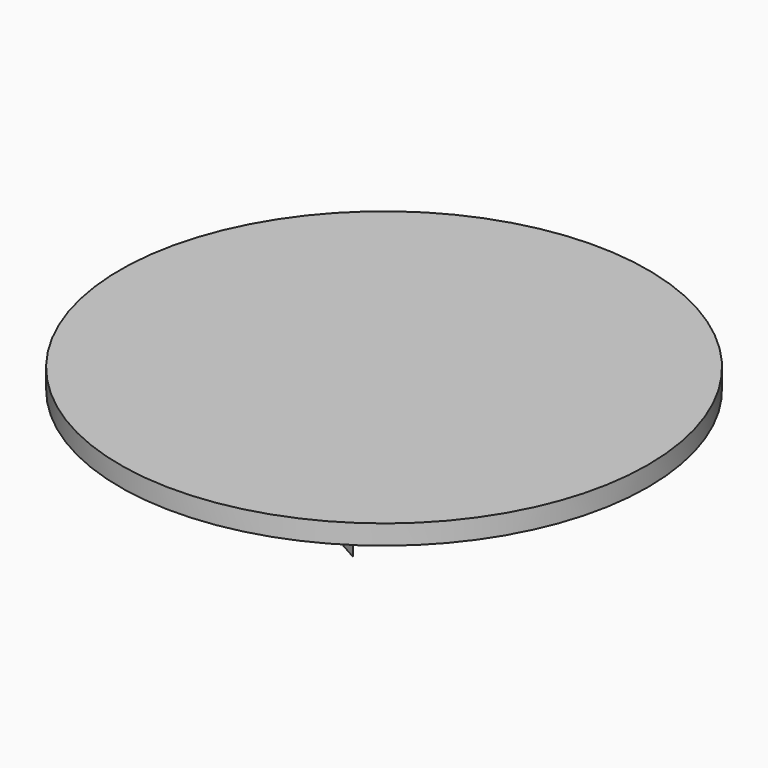
from build123d import *

# Parameters (mm, degrees)
F1_DEPTH = 3
F0_R     = 4.1883585847
F0_R_2   = 4.8531837551
F0_R_3   = 1.7874503883
F0_R_4   = 67.2315018971
F2_DEPTH = 5


with BuildPart() as f1:
    # F0 (on Top) → F1 (new body)
    with BuildSketch(Plane.XY):
        with BuildLine():
            Line((6.524791941, 11.1604705453), (18.5407903045, 35.0785702467))
            Line((18.5407903045, 35.0785702467), (6.8664811552, 25.5113355815))
            Line((6.8664811552, 25.5113355815), (9.9986130372, 25.5113355815))
            Line((9.9986130372, 25.5113355815), (4.0190881118, 16.3427311927))
            Line((4.0190881118, 16.3427311927), (1.8550701207, 14.748191461))
            Line((1.8550701207, 14.748191461), (0, 14.748191461))
            Line((0, 14.748191461), (-2.6880883992, 15.5013195603))
            Line((-2.6880883992, 15.5013195603), (-4.9156010843, 16.1254070699))
            Line((-4.9156010843, 16.1254070699), (-12.8565848023, 16.1254070699))
            ThreePointArc((-12.8565848023, 16.1254070699), (-13.8442379694, 16.0435606013), (-14.8049458285, 15.8002541438))
            Line((-14.8049458285, 15.8002541438), (-19.5052184044, 14.18649649))
            Line((-19.5052184044, 14.18649649), (-23.8284152001, 11.7299547419))
            Line((-23.8284152001, 11.7299547419), (-25.479901582, 10.5909984559))
            Line((-25.479901582, 10.5909984559), (-27.2452868521, 10.5909984559))
            Line((-27.2452868521, 10.5909984559), (-38.6348553002, 22.436151281))
            Line((-38.6348553002, 22.436151281), (-54.4432774186, 34.1674089432))
            Line((-54.4432774186, 34.1674089432), (-44.6143820882, 20.6707678735))
            Line((-44.6143820882, 20.6707678735), (-26.334118098, 3.1308280304))
            Line((-26.334118098, 3.1308280304), (-22.0568471308, 1.9324548836))
            Line((-22.0568471308, 1.9324548836), (-24.0562036633, 4.3836818077))
            Line((-24.0562036633, 4.3836818077), (-24.0562036633, 5.6934817694))
            Line((-24.0562036633, 5.6934817694), (-23.0311434716, 6.8893865682))
            Line((-23.0311434716, 6.8893865682), (-20.4684883356, 8.6547704414))
            Line((-20.4684883356, 8.6547704414), (-16.9946700335, 10.4771014303))
            Line((-16.9946700335, 10.4771014303), (-14.09033034, 11.5807517488))
            Line((-14.09033034, 11.5807517488), (-9.1928122565, 12.1285896748))
            Line((-9.1928122565, 12.1285896748), (-4.6369838528, 11.4452149719))
            Line((-4.6369838528, 11.4452149719), (-1.7052790924, 10.6238322991))
            Line((-1.7052790924, 10.6238322991), (1.1533434658, 9.1877146974))
            Line((1.1533434658, 9.1877146974), (1.9689633045, 8.5978163406))
            Line((1.9689633045, 8.5978163406), (1.9689633045, 6.4337980002))
            Line((1.9689633045, 6.4337980002), (6.524791941, 11.1604705453))
        make_face()
    extrude(amount=-F1_DEPTH)


with BuildPart() as f1b:
    # F0 (on Top) → F1, piece 2 (new body)
    with BuildSketch(Plane.XY):
        Polygon((-26.9036013633, 15.8871430904), (-23.4297811985, 14.0648102388), (-24.5117917657, 16.9122032821), (-24.5117917657, 18.7345407903), (-23.6006230116, 20.0443416834), (-20.0129076838, 21.5249862522), (-16.0265564919, 22.6069949567), (-11.2998858094, 23.2903696597), (-5.6620473042, 23.2903696597), (-2.8716025408, 22.4930997938), (-1.8465407193, 21.5249862522), (-1.390957972, 20.5568727106), (-1.390957972, 17.48168841), (1.2855911627, 20.2721264213), (4.9872016534, 33.484030515), (-2.1312802564, 27.2197667509), (-4.580038134, 27.6753548533), (-7.5982743874, 27.6753548533), (-11.2998858094, 27.6753548533), (-14.09033034, 27.1628238261), (-17.5641495734, 26.4794509858), (-20.8671260625, 25.5113355815), (-23.0311434716, 24.4293212891), (-23.4297811985, 24.4293212891), (-26.7327539623, 24.4293212891), (-38.2902911921, 40.1423304444), (-32.4275419116, 24.7140601277), align=None)
    extrude(amount=-F1_DEPTH)


with BuildPart() as f1c:
    # F0 (on Top) → F1, piece 3 (new body)
    with BuildSketch(Plane.XY):
        Polygon((-30.920324406, -0.6410955102), (-25.0839442015, -1.5165531076), (-39.2646156251, 8.5978163406), (-54.4432774186, 13.9403799549), align=None)
    extrude(amount=-F1_DEPTH)


with BuildPart() as f1d:
    # F0 (on Top) → F1, piece 4 (new body)
    with BuildSketch(Plane.XY):
        Polygon((-36.9173251092, -23.5243160278), (-40.6554341316, -34.4649702311), (-30.8183096349, -19.2739889026), (-35.5839021504, -20.8293963224), (-39.081171155, -22.8726491332), (-43.0163405836, -25.649478659), align=None)
    extrude(amount=-F1_DEPTH)


with BuildPart() as f1e:
    # F0 (on Top) → F1, piece 5 (new body)
    with BuildSketch(Plane.XY):
        Polygon((-34.4383716583, -29.4275470078), (-30.8183096349, -24.2327023298), (-35.8010726204, -28.561739251), (-37.1927656233, -31.0804508626), align=None)
    extrude(amount=-F1_DEPTH)


with BuildPart() as f1f:
    # F0 (on Top) → F1, piece 6 (new body)
    with BuildSketch(Plane.XY):
        Polygon((-29.165674001, -22.5797984749), (-32.4709452689, -28.561739251), (-29.3230675161, -26.4365747571), (-24.994732812, -20.1397966594), align=None)
    extrude(amount=-F1_DEPTH)


with BuildPart() as f1g:
    # F0 (on Top) → F1, piece 7 (new body)
    with BuildSketch(Plane.XY):
        with BuildLine():
            Line((-28.8508869708, -28.874181211), (-35.9521023929, -42.3855111003))
            Line((-35.9521023929, -42.3855111003), (-16.6643485427, -24.3179053068))
            Line((-16.6643485427, -24.3179053068), (-16.0232782364, -24.3884529918))
            ThreePointArc((-16.0232782364, -24.3884529918), (1.0549083614, -22.4439980096), (3.9627072361, -5.5032167894))
            Line((3.9627072361, -5.5032167894), (40.6385473907, 33.2254134119))
            Line((40.6385473907, 33.2254134119), (48.0357185006, 45.5672293901))
            Line((48.0357185006, 45.5672293901), (-1.5388774003, 0.3179199721))
            ThreePointArc((-1.5388774003, 0.3179199721), (-11.897114444, 1.940222604), (-20.5842528774, -3.9299193296))
            Line((-20.5842528774, -3.9299193296), (-24.1336280736, -3.9299193296))
            Line((-24.1336280736, -3.9299193296), (-22.240338847, -7.150552102))
            Line((-22.240338847, -7.150552102), (-22.240338847, -11.0886627808))
            Line((-22.240338847, -11.0886627808), (-18.3054897934, -9.7508141771))
            Line((-18.3054897934, -9.7508141771), (-14.2919449136, -9.7508141771))
            Line((-14.2919449136, -9.7508141771), (-16.1061811793, -6.5578027082))
            ThreePointArc((-16.1061811793, -6.5578027082), (0.8755312536, -12.9223696784), (-17.0014028047, -15.9722055013))
            Line((-17.0014028047, -15.9722055013), (-28.8508869708, -28.874181211))
        make_face()
    extrude(amount=-F1_DEPTH)


with BuildPart() as f1h:
    # F0 (on Top) → F1, piece 8 (new body)
    with BuildSketch(Plane.XY):
        with Locations((-8.6963499838, -11.8858055258)):
            Circle(F0_R)
    extrude(amount=-F1_DEPTH)


with BuildPart() as f1i:
    # F0 (on Top) → F1, piece 9 (new body)
    with BuildSketch(Plane.XY):
        with Locations((14.2299542493, -12.1699558468)):
            Circle(F0_R_2)
        with Locations((14.4696965303, -11.94712984)):
            Circle(F0_R_3, mode=Mode.SUBTRACT)
    extrude(amount=-F1_DEPTH)


with BuildPart() as f1j:
    # F0 (on Top) → F1, piece 10 (new body)
    with BuildSketch(Plane.XY):
        with BuildLine():
            Line((19.5455458015, 2.9109590687), (21.5109754354, 2.9109590687))
            Line((21.5109754354, 2.9109590687), (22.6636195944, 2.5548051165))
            ThreePointArc((22.6636195944, 2.5548051165), (26.3133055863, -15.6659247159), (19.4490682334, -32.9343192279))
            Line((19.4490682334, -32.9343192279), (15.6118310988, -33.1215001643))
            Line((15.6118310988, -33.1215001643), (8.3121499047, -28.1611848623))
            Line((8.3121499047, -28.1611848623), (10.6514208019, -34.3381799757))
            Line((10.6514208019, -34.3381799757), (27.8708003461, -50.7165715098))
            Line((27.8708003461, -50.7165715098), (36.4808142185, -55.5514258753))
            Line((36.4808142185, -55.5514258753), (22.4710945349, -38.9282732765))
            Line((22.4710945349, -38.9282732765), (23.0053216219, -35.3676788509))
            ThreePointArc((23.0053216219, -35.3676788509), (30.6912772846, -16.542626229), (27.3291476131, 3.5111166819))
            Line((27.3291476131, 3.5111166819), (26.9393716007, 4.5020021498))
            Line((26.9393716007, 4.5020021498), (27.9690362513, 6.5609994344))
            Line((27.9690362513, 6.5609994344), (34.707993269, 11.7084933445))
            Line((34.707993269, 11.7084933445), (38.2649675012, 18.1662589312))
            Line((38.2649675012, 18.1662589312), (15.3340501711, 3.7532753777))
            Line((15.3340501711, 3.7532753777), (11.7771970108, -1.2070364319))
            Line((11.7771970108, -1.2070364319), (19.5455458015, 2.9109590687))
        make_face()
    extrude(amount=-F1_DEPTH)


with BuildPart() as f2:
    # F0 (on Top) → F2 (new body)
    with BuildSketch(Plane.XY):
        Circle(F0_R_4)
        Polygon((-35.8010726204, -28.561739251), (-30.8183096349, -24.2327023298), (-34.4383716583, -29.4275470078), (-37.1927656233, -31.0804508626), align=None, mode=Mode.SUBTRACT)
        Polygon((-30.8183096349, -19.2739889026), (-40.6554341316, -34.4649702311), (-36.9173251092, -23.5243160278), (-43.0163405836, -25.649478659), (-39.081171155, -22.8726491332), (-35.5839021504, -20.8293963224), align=None, mode=Mode.SUBTRACT)
        Polygon((-29.3230675161, -26.4365747571), (-32.4709452689, -28.561739251), (-29.165674001, -22.5797984749), (-24.994732812, -20.1397966594), align=None, mode=Mode.SUBTRACT)
        with Locations((-8.6963499838, -11.8858055258)):
            Circle(F0_R, mode=Mode.SUBTRACT)
        with BuildLine():
            Line((22.6636195944, 2.5548051165), (21.5109754354, 2.9109590687))
            Line((21.5109754354, 2.9109590687), (19.5455458015, 2.9109590687))
            Line((19.5455458015, 2.9109590687), (11.7771970108, -1.2070364319))
            Line((11.7771970108, -1.2070364319), (15.3340501711, 3.7532753777))
            Line((15.3340501711, 3.7532753777), (38.2649675012, 18.1662589312))
            Line((38.2649675012, 18.1662589312), (34.707993269, 11.7084933445))
            Line((34.707993269, 11.7084933445), (27.9690362513, 6.5609994344))
            Line((27.9690362513, 6.5609994344), (26.9393716007, 4.5020021498))
            Line((26.9393716007, 4.5020021498), (27.3291476131, 3.5111166819))
            ThreePointArc((27.3291476131, 3.5111166819), (30.6912772846, -16.542626229), (23.0053216219, -35.3676788509))
            Line((23.0053216219, -35.3676788509), (22.4710945349, -38.9282732765))
            Line((22.4710945349, -38.9282732765), (36.4808142185, -55.5514258753))
            Line((36.4808142185, -55.5514258753), (27.8708003461, -50.7165715098))
            Line((27.8708003461, -50.7165715098), (10.6514208019, -34.3381799757))
            Line((10.6514208019, -34.3381799757), (8.3121499047, -28.1611848623))
            Line((8.3121499047, -28.1611848623), (15.6118310988, -33.1215001643))
            Line((15.6118310988, -33.1215001643), (19.4490682334, -32.9343192279))
            ThreePointArc((19.4490682334, -32.9343192279), (26.3133055863, -15.6659247159), (22.6636195944, 2.5548051165))
        make_face(mode=Mode.SUBTRACT)
        with Locations((14.2299542493, -12.1699558468)):
            Circle(F0_R_2, mode=Mode.SUBTRACT)
        Polygon((-39.2646156251, 8.5978163406), (-25.0839442015, -1.5165531076), (-30.920324406, -0.6410955102), (-54.4432774186, 13.9403799549), align=None, mode=Mode.SUBTRACT)
        with BuildLine():
            Line((6.8664811552, 25.5113355815), (18.5407903045, 35.0785702467))
            Line((18.5407903045, 35.0785702467), (6.524791941, 11.1604705453))
            Line((6.524791941, 11.1604705453), (1.9689633045, 6.4337980002))
            Line((1.9689633045, 6.4337980002), (1.9689633045, 8.5978163406))
            Line((1.9689633045, 8.5978163406), (1.1533434658, 9.1877146974))
            Line((1.1533434658, 9.1877146974), (-1.7052790924, 10.6238322991))
            Line((-1.7052790924, 10.6238322991), (-4.6369838528, 11.4452149719))
            Line((-4.6369838528, 11.4452149719), (-9.1928122565, 12.1285896748))
            Line((-9.1928122565, 12.1285896748), (-14.09033034, 11.5807517488))
            Line((-14.09033034, 11.5807517488), (-16.9946700335, 10.4771014303))
            Line((-16.9946700335, 10.4771014303), (-20.4684883356, 8.6547704414))
            Line((-20.4684883356, 8.6547704414), (-23.0311434716, 6.8893865682))
            Line((-23.0311434716, 6.8893865682), (-24.0562036633, 5.6934817694))
            Line((-24.0562036633, 5.6934817694), (-24.0562036633, 4.3836818077))
            Line((-24.0562036633, 4.3836818077), (-22.0568471308, 1.9324548836))
            Line((-22.0568471308, 1.9324548836), (-26.334118098, 3.1308280304))
            Line((-26.334118098, 3.1308280304), (-44.6143820882, 20.6707678735))
            Line((-44.6143820882, 20.6707678735), (-54.4432774186, 34.1674089432))
            Line((-54.4432774186, 34.1674089432), (-38.6348553002, 22.436151281))
            Line((-38.6348553002, 22.436151281), (-27.2452868521, 10.5909984559))
            Line((-27.2452868521, 10.5909984559), (-25.479901582, 10.5909984559))
            Line((-25.479901582, 10.5909984559), (-23.8284152001, 11.7299547419))
            Line((-23.8284152001, 11.7299547419), (-19.5052184044, 14.18649649))
            Line((-19.5052184044, 14.18649649), (-14.8049458285, 15.8002541438))
            ThreePointArc((-14.8049458285, 15.8002541438), (-13.8442379694, 16.0435606013), (-12.8565848023, 16.1254070699))
            Line((-12.8565848023, 16.1254070699), (-4.9156010843, 16.1254070699))
            Line((-4.9156010843, 16.1254070699), (-2.6880883992, 15.5013195603))
            Line((-2.6880883992, 15.5013195603), (0, 14.748191461))
            Line((0, 14.748191461), (1.8550701207, 14.748191461))
            Line((1.8550701207, 14.748191461), (4.0190881118, 16.3427311927))
            Line((4.0190881118, 16.3427311927), (9.9986130372, 25.5113355815))
            Line((9.9986130372, 25.5113355815), (6.8664811552, 25.5113355815))
        make_face(mode=Mode.SUBTRACT)
        Polygon((-24.5117917657, 16.9122032821), (-23.4297811985, 14.0648102388), (-26.9036013633, 15.8871430904), (-32.4275419116, 24.7140601277), (-38.2902911921, 40.1423304444), (-26.7327539623, 24.4293212891), (-23.4297811985, 24.4293212891), (-23.0311434716, 24.4293212891), (-20.8671260625, 25.5113355815), (-17.5641495734, 26.4794509858), (-14.09033034, 27.1628238261), (-11.2998858094, 27.6753548533), (-7.5982743874, 27.6753548533), (-4.580038134, 27.6753548533), (-2.1312802564, 27.2197667509), (4.9872016534, 33.484030515), (1.2855911627, 20.2721264213), (-1.390957972, 17.48168841), (-1.390957972, 20.5568727106), (-1.8465407193, 21.5249862522), (-2.8716025408, 22.4930997938), (-5.6620473042, 23.2903696597), (-11.2998858094, 23.2903696597), (-16.0265564919, 22.6069949567), (-20.0129076838, 21.5249862522), (-23.6006230116, 20.0443416834), (-24.5117917657, 18.7345407903), align=None, mode=Mode.SUBTRACT)
        with BuildLine():
            Line((-16.6643485427, -24.3179053068), (-35.9521023929, -42.3855111003))
            Line((-35.9521023929, -42.3855111003), (-28.8508869708, -28.874181211))
            Line((-28.8508869708, -28.874181211), (-17.0014028047, -15.9722055013))
            ThreePointArc((-17.0014028047, -15.9722055013), (0.8755312536, -12.9223696784), (-16.1061811793, -6.5578027082))
            Line((-16.1061811793, -6.5578027082), (-14.2919449136, -9.7508141771))
            Line((-14.2919449136, -9.7508141771), (-18.3054897934, -9.7508141771))
            Line((-18.3054897934, -9.7508141771), (-22.240338847, -11.0886627808))
            Line((-22.240338847, -11.0886627808), (-22.240338847, -7.150552102))
            Line((-22.240338847, -7.150552102), (-24.1336280736, -3.9299193296))
            Line((-24.1336280736, -3.9299193296), (-20.5842528774, -3.9299193296))
            ThreePointArc((-20.5842528774, -3.9299193296), (-11.897114444, 1.940222604), (-1.5388774003, 0.3179199721))
            Line((-1.5388774003, 0.3179199721), (48.0357185006, 45.5672293901))
            Line((48.0357185006, 45.5672293901), (40.6385473907, 33.2254134119))
            Line((40.6385473907, 33.2254134119), (3.9627072361, -5.5032167894))
            ThreePointArc((3.9627072361, -5.5032167894), (1.0549083614, -22.4439980096), (-16.0232782364, -24.3884529918))
            Line((-16.0232782364, -24.3884529918), (-16.6643485427, -24.3179053068))
        make_face(mode=Mode.SUBTRACT)
        with BuildLine():
            Line((-28.8508869708, -28.874181211), (-35.9521023929, -42.3855111003))
            Line((-35.9521023929, -42.3855111003), (-16.6643485427, -24.3179053068))
            Line((-16.6643485427, -24.3179053068), (-16.0232782364, -24.3884529918))
            ThreePointArc((-16.0232782364, -24.3884529918), (1.0549083614, -22.4439980096), (3.9627072361, -5.5032167894))
            Line((3.9627072361, -5.5032167894), (40.6385473907, 33.2254134119))
            Line((40.6385473907, 33.2254134119), (48.0357185006, 45.5672293901))
            Line((48.0357185006, 45.5672293901), (-1.5388774003, 0.3179199721))
            ThreePointArc((-1.5388774003, 0.3179199721), (-11.897114444, 1.940222604), (-20.5842528774, -3.9299193296))
            Line((-20.5842528774, -3.9299193296), (-24.1336280736, -3.9299193296))
            Line((-24.1336280736, -3.9299193296), (-22.240338847, -7.150552102))
            Line((-22.240338847, -7.150552102), (-22.240338847, -11.0886627808))
            Line((-22.240338847, -11.0886627808), (-18.3054897934, -9.7508141771))
            Line((-18.3054897934, -9.7508141771), (-14.2919449136, -9.7508141771))
            Line((-14.2919449136, -9.7508141771), (-16.1061811793, -6.5578027082))
            ThreePointArc((-16.1061811793, -6.5578027082), (0.8755312536, -12.9223696784), (-17.0014028047, -15.9722055013))
            Line((-17.0014028047, -15.9722055013), (-28.8508869708, -28.874181211))
        make_face()
        with BuildLine():
            Line((19.5455458015, 2.9109590687), (21.5109754354, 2.9109590687))
            Line((21.5109754354, 2.9109590687), (22.6636195944, 2.5548051165))
            ThreePointArc((22.6636195944, 2.5548051165), (26.3133055863, -15.6659247159), (19.4490682334, -32.9343192279))
            Line((19.4490682334, -32.9343192279), (15.6118310988, -33.1215001643))
            Line((15.6118310988, -33.1215001643), (8.3121499047, -28.1611848623))
            Line((8.3121499047, -28.1611848623), (10.6514208019, -34.3381799757))
            Line((10.6514208019, -34.3381799757), (27.8708003461, -50.7165715098))
            Line((27.8708003461, -50.7165715098), (36.4808142185, -55.5514258753))
            Line((36.4808142185, -55.5514258753), (22.4710945349, -38.9282732765))
            Line((22.4710945349, -38.9282732765), (23.0053216219, -35.3676788509))
            ThreePointArc((23.0053216219, -35.3676788509), (30.6912772846, -16.542626229), (27.3291476131, 3.5111166819))
            Line((27.3291476131, 3.5111166819), (26.9393716007, 4.5020021498))
            Line((26.9393716007, 4.5020021498), (27.9690362513, 6.5609994344))
            Line((27.9690362513, 6.5609994344), (34.707993269, 11.7084933445))
            Line((34.707993269, 11.7084933445), (38.2649675012, 18.1662589312))
            Line((38.2649675012, 18.1662589312), (15.3340501711, 3.7532753777))
            Line((15.3340501711, 3.7532753777), (11.7771970108, -1.2070364319))
            Line((11.7771970108, -1.2070364319), (19.5455458015, 2.9109590687))
        make_face()
        with BuildLine():
            Line((6.524791941, 11.1604705453), (18.5407903045, 35.0785702467))
            Line((18.5407903045, 35.0785702467), (6.8664811552, 25.5113355815))
            Line((6.8664811552, 25.5113355815), (9.9986130372, 25.5113355815))
            Line((9.9986130372, 25.5113355815), (4.0190881118, 16.3427311927))
            Line((4.0190881118, 16.3427311927), (1.8550701207, 14.748191461))
            Line((1.8550701207, 14.748191461), (0, 14.748191461))
            Line((0, 14.748191461), (-2.6880883992, 15.5013195603))
            Line((-2.6880883992, 15.5013195603), (-4.9156010843, 16.1254070699))
            Line((-4.9156010843, 16.1254070699), (-12.8565848023, 16.1254070699))
            ThreePointArc((-12.8565848023, 16.1254070699), (-13.8442379694, 16.0435606013), (-14.8049458285, 15.8002541438))
            Line((-14.8049458285, 15.8002541438), (-19.5052184044, 14.18649649))
            Line((-19.5052184044, 14.18649649), (-23.8284152001, 11.7299547419))
            Line((-23.8284152001, 11.7299547419), (-25.479901582, 10.5909984559))
            Line((-25.479901582, 10.5909984559), (-27.2452868521, 10.5909984559))
            Line((-27.2452868521, 10.5909984559), (-38.6348553002, 22.436151281))
            Line((-38.6348553002, 22.436151281), (-54.4432774186, 34.1674089432))
            Line((-54.4432774186, 34.1674089432), (-44.6143820882, 20.6707678735))
            Line((-44.6143820882, 20.6707678735), (-26.334118098, 3.1308280304))
            Line((-26.334118098, 3.1308280304), (-22.0568471308, 1.9324548836))
            Line((-22.0568471308, 1.9324548836), (-24.0562036633, 4.3836818077))
            Line((-24.0562036633, 4.3836818077), (-24.0562036633, 5.6934817694))
            Line((-24.0562036633, 5.6934817694), (-23.0311434716, 6.8893865682))
            Line((-23.0311434716, 6.8893865682), (-20.4684883356, 8.6547704414))
            Line((-20.4684883356, 8.6547704414), (-16.9946700335, 10.4771014303))
            Line((-16.9946700335, 10.4771014303), (-14.09033034, 11.5807517488))
            Line((-14.09033034, 11.5807517488), (-9.1928122565, 12.1285896748))
            Line((-9.1928122565, 12.1285896748), (-4.6369838528, 11.4452149719))
            Line((-4.6369838528, 11.4452149719), (-1.7052790924, 10.6238322991))
            Line((-1.7052790924, 10.6238322991), (1.1533434658, 9.1877146974))
            Line((1.1533434658, 9.1877146974), (1.9689633045, 8.5978163406))
            Line((1.9689633045, 8.5978163406), (1.9689633045, 6.4337980002))
            Line((1.9689633045, 6.4337980002), (6.524791941, 11.1604705453))
        make_face()
        Polygon((-26.9036013633, 15.8871430904), (-23.4297811985, 14.0648102388), (-24.5117917657, 16.9122032821), (-24.5117917657, 18.7345407903), (-23.6006230116, 20.0443416834), (-20.0129076838, 21.5249862522), (-16.0265564919, 22.6069949567), (-11.2998858094, 23.2903696597), (-5.6620473042, 23.2903696597), (-2.8716025408, 22.4930997938), (-1.8465407193, 21.5249862522), (-1.390957972, 20.5568727106), (-1.390957972, 17.48168841), (1.2855911627, 20.2721264213), (4.9872016534, 33.484030515), (-2.1312802564, 27.2197667509), (-4.580038134, 27.6753548533), (-7.5982743874, 27.6753548533), (-11.2998858094, 27.6753548533), (-14.09033034, 27.1628238261), (-17.5641495734, 26.4794509858), (-20.8671260625, 25.5113355815), (-23.0311434716, 24.4293212891), (-23.4297811985, 24.4293212891), (-26.7327539623, 24.4293212891), (-38.2902911921, 40.1423304444), (-32.4275419116, 24.7140601277), align=None)
        with Locations((14.2299542493, -12.1699558468)):
            Circle(F0_R_2)
        with Locations((14.4696965303, -11.94712984)):
            Circle(F0_R_3, mode=Mode.SUBTRACT)
        Polygon((-30.920324406, -0.6410955102), (-25.0839442015, -1.5165531076), (-39.2646156251, 8.5978163406), (-54.4432774186, 13.9403799549), align=None)
        with Locations((-8.6963499838, -11.8858055258)):
            Circle(F0_R)
        Polygon((-36.9173251092, -23.5243160278), (-40.6554341316, -34.4649702311), (-30.8183096349, -19.2739889026), (-35.5839021504, -20.8293963224), (-39.081171155, -22.8726491332), (-43.0163405836, -25.649478659), align=None)
        Polygon((-29.165674001, -22.5797984749), (-32.4709452689, -28.561739251), (-29.3230675161, -26.4365747571), (-24.994732812, -20.1397966594), align=None)
        with Locations((14.4696965303, -11.94712984)):
            Circle(F0_R_3)
        Polygon((-34.4383716583, -29.4275470078), (-30.8183096349, -24.2327023298), (-35.8010726204, -28.561739251), (-37.1927656233, -31.0804508626), align=None)
    extrude(amount=F2_DEPTH)


solid = Compound([f1.part, f1b.part, f1c.part, f1d.part, f1e.part, f1f.part, f1g.part, f1h.part, f1i.part, f1j.part, f2.part])
